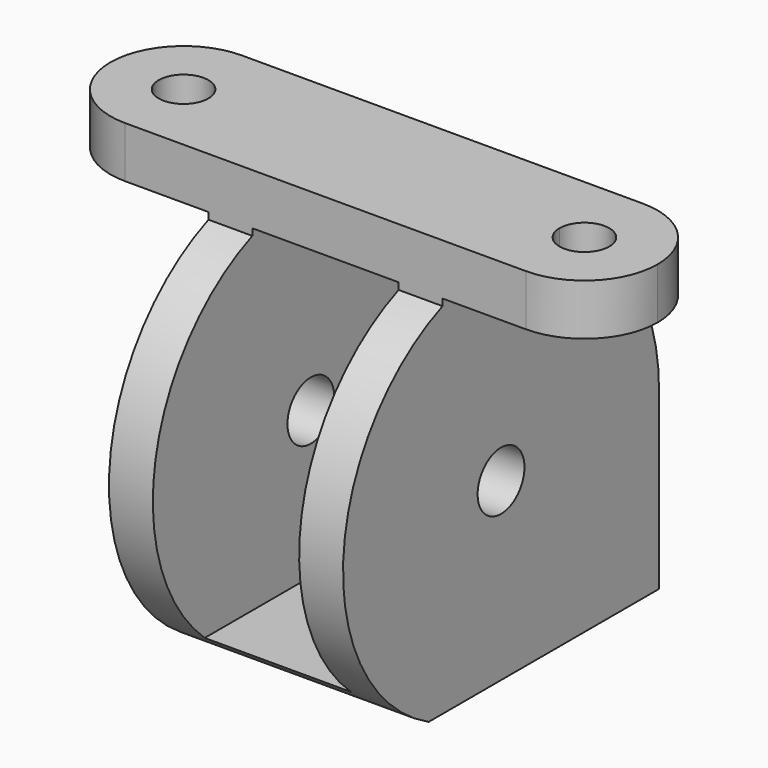
from build123d import *

# Parameters (mm, degrees)
SKETCH005_R                = 2
PAD001_DEPTH               = 8
SKETCH006_W                = 10
SKETCH006_H                = 23
POCKET003_DEPTH            = 13.501
POCKET003_DEPTH_BACK       = 13.501
SKETCH007_R                = 2.5
POCKET004_DEPTH            = 12.001
PAD002_DEPTH               = 3.5
PAD002_MIRRORED007_2_DEPTH = 3.5


with BuildPart() as part:
    # Sketch005 → Pad001 (new body)
    with BuildSketch(Plane.YZ):
        with BuildLine():
            ThreePointArc((13.5, 0), (11.174748, 7.574629), (5, 12.539936))
            Line((5, 16.5), (5, 12.539936))
            Line((-5, 16.5), (5, 16.5))
            Line((-5, 12.539936), (-5, 16.5))
            ThreePointArc((-5, 12.539936), (-13.484297, 0.650951), (-6.184658, -12))
            Line((13.5, -12), (-6.184658, -12))
            Line((13.5, 0), (13.5, -12))
        make_face()
        Circle(SKETCH005_R, mode=Mode.SUBTRACT)
    pad001 = extrude(amount=PAD001_DEPTH)

    # Mirrored006: Pad001 across YZ
    add(pad001.mirror(Plane.YZ))

    # Sketch006 → Pocket003 (cut, two sides)
    with BuildSketch(Plane.XZ) as pocket003_sk:
        with Locations((0, 1.5)):
            Rectangle(SKETCH006_W, SKETCH006_H)
    extrude(amount=-POCKET003_DEPTH, mode=Mode.SUBTRACT)
    extrude(pocket003_sk.sketch, amount=POCKET003_DEPTH_BACK, mode=Mode.SUBTRACT)

    # Sketch007 → Pocket004 (cut, through all)
    with BuildSketch(Plane.XY):
        with Locations((0, 9)):
            Circle(SKETCH007_R)
    extrude(amount=-POCKET004_DEPTH, mode=Mode.SUBTRACT)

    # Sketch008 → Pad002 (join)
    with BuildSketch(Plane.XY.offset(13)):
        with BuildLine():
            Line((13.7, 5), (0, 5))
            Line((0, 5), (0, 0))
            Line((0, 0), (8, 0))
            Line((8, 0), (12, 0))
            ThreePointArc((15.4, 0), (13.7, 1.7), (12, 0))
            Line((15.4, 0), (18.7, 0))
            ThreePointArc((18.7, 0), (17.235534, 3.535534), (13.7, 5))
        make_face()
    pad002 = extrude(amount=PAD002_DEPTH)

    # Sketch008 Mirrored007 2 → Pad002 Mirrored007 2 (add)
    with BuildSketch(Plane(origin=(0, 0, 13), x_dir=(-1, 0, 0), z_dir=(0, 0, -1))):
        with BuildLine():
            Line((13.7, 5), (0, 5))
            Line((0, 5), (0, 0))
            Line((0, 0), (8, 0))
            Line((8, 0), (12, 0))
            ThreePointArc((15.4, 0), (13.7, 1.7), (12, 0))
            Line((15.4, 0), (18.7, 0))
            ThreePointArc((18.7, 0), (17.235534, 3.535534), (13.7, 5))
        make_face()
    pad002_mirrored007_2 = extrude(amount=-PAD002_MIRRORED007_2_DEPTH)

    # Mirrored008: Pad002, Pad002 Mirrored007 2 across Sketch008 H_Axis
    add(pad002.mirror(Plane(origin=(0, 0, 13), x_dir=(0, 0, 1), z_dir=(0, 1, 0))))
    add(pad002_mirrored007_2.mirror(Plane(origin=(0, 0, 13), x_dir=(0, 0, 1), z_dir=(0, 1, 0))))


solid = part.part
